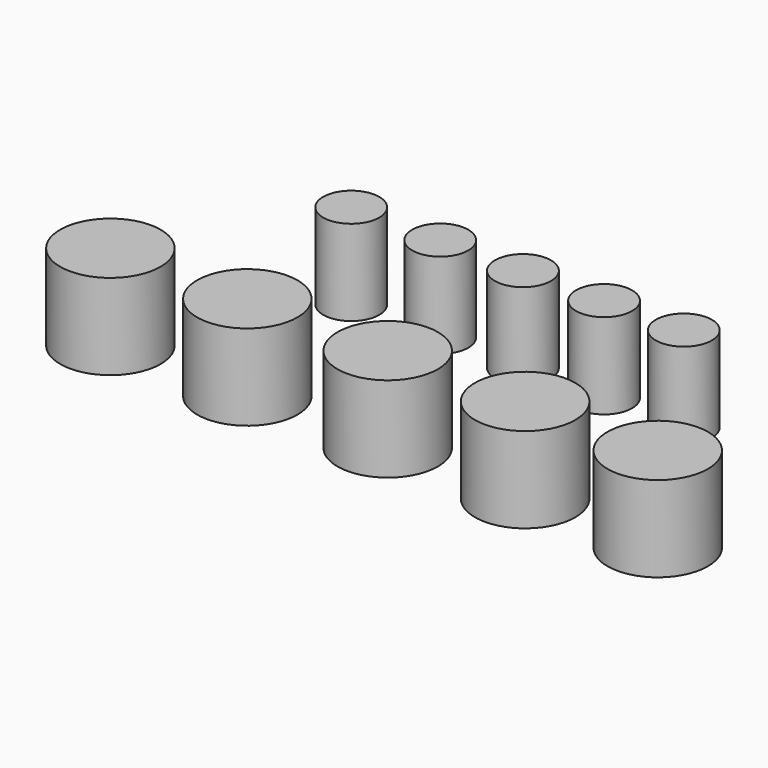
from build123d import *

# Parameters (mm, degrees)
F0_R     = 1.9
F0_R_2   = 3.4
F1_DEPTH = 5.8


with BuildPart() as f1:
    # F0 (on Top) → F1 (new body)
    with BuildSketch(Plane.XY):
        with Locations((10.893991, 17.772019)):
            Circle(F0_R)
        with Locations((18.424494, 6.150329)):
            Circle(F0_R_2)
        with Locations((9.446569, 6.150329)):
            Circle(F0_R_2)
        with Locations((0.139795, 6.150329)):
            Circle(F0_R_2)
        with Locations((-9.365272, 6.150329)):
            Circle(F0_R_2)
        with Locations((-18.635426, 6.150329)):
            Circle(F0_R_2)
        with Locations((5.493991, 17.772019)):
            Circle(F0_R)
        with Locations((0, 17.772019)):
            Circle(F0_R)
        with Locations((-5.6, 17.772019)):
            Circle(F0_R)
        with Locations((-11.624938, 17.772019)):
            Circle(F0_R)
    extrude(amount=F1_DEPTH)


solid = f1.part
